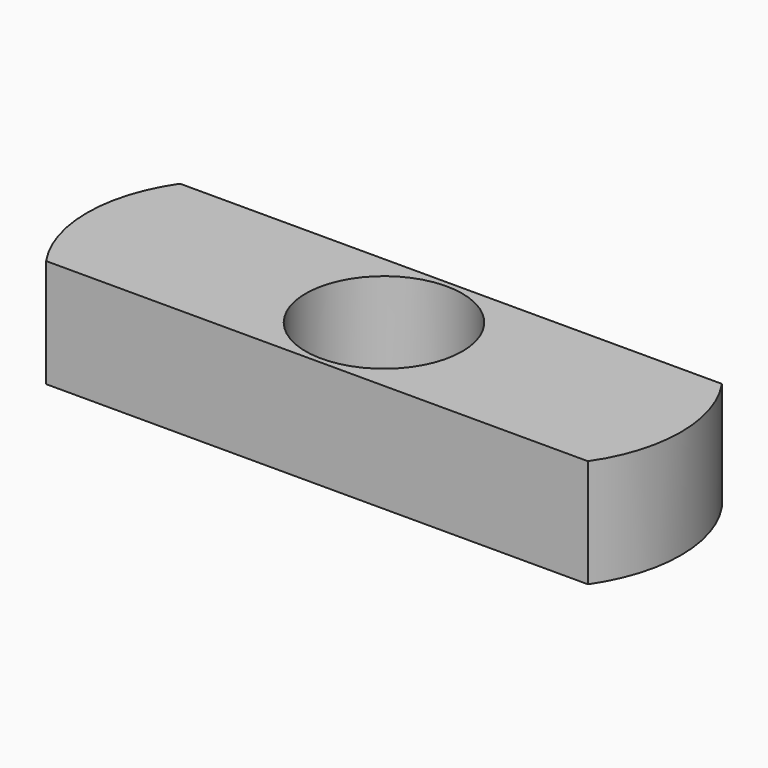
from build123d import *

# Parameters (mm, degrees)
F0_R     = 15.9
F1_DEPTH = 11
F3_DEPTH = 12


with BuildPart() as f1:
    # F0 (on Top) → F1 (new body, symmetric)
    with BuildSketch(Plane.XY):
        with BuildLine():
            ThreePointArc((0, 34), (-5.281586, 17), (0, 0))
            Line((0, 0), (110, 0))
            ThreePointArc((110, 0), (115.281586, 17), (110, 34))
            Line((110, 34), (0, 34))
        make_face()
        with Locations((55, 17)):
            Circle(F0_R, mode=Mode.SUBTRACT)
    extrude(amount=F1_DEPTH, both=True)

    # F2 (on face) → F3 (cut)
    with BuildSketch(Plane(origin=(0, 0, -11), x_dir=(1, 0, 0), z_dir=(0, 0, -1))):
        with BuildLine():
            add(Edge.make_bspline(
                [(15.000875, -3.899939), (-2.319633, -3.899939), (6.340621, -24.299939), (15.000875, -44.699939), (23.661129, -24.299939), (32.321383, -3.899939), (15.000875, -3.899939)],
                knots=[0, 0, 0, 2.094395, 2.094395, 4.18879, 4.18879, 6.283185, 6.283185, 6.283185], degree=2, weights=[1, 0.5, 1, 0.5, 1, 0.5, 1]))
        make_face()
        with BuildLine():
            add(Edge.make_bspline(
                [(95.481177, -3.657252), (78.160669, -3.657252), (86.820923, -24.057252), (95.481177, -44.457252), (104.141431, -24.057252), (112.801685, -3.657252), (95.481177, -3.657252)],
                knots=[0, 0, 0, 2.094395, 2.094395, 4.18879, 4.18879, 6.283185, 6.283185, 6.283185], degree=2, weights=[1, 0.5, 1, 0.5, 1, 0.5, 1]))
        make_face()
    extrude(amount=-F3_DEPTH, mode=Mode.SUBTRACT)


solid = f1.part
